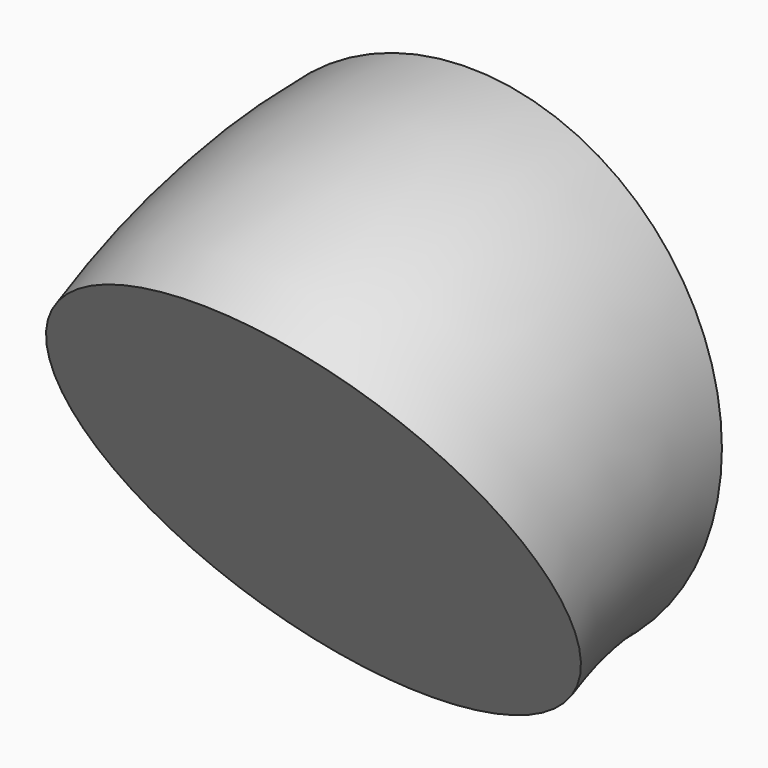
from build123d import *

# Parameters (mm, degrees)
F0_R     = 33.863403
F0_W     = 34.403794
F0_H     = 23.062286
F1_DEPTH = 125
F2_SIZE  = 5
F3_R     = 5
F4_R     = 34.462721
F5_ANGLE = 30


with BuildPart() as f1:
    # F0 (on Front) → F1 (new body)
    with BuildSketch(Plane.XZ):
        Circle(F0_R)
        Rectangle(F0_W, F0_H, mode=Mode.SUBTRACT)
    extrude(amount=F1_DEPTH)

    # F2
    f2_edges = [f1.edges().sort_by_distance(p)[0] for p in [
        (-33.863403, -125, 0),
    ]]
    chamfer(f2_edges, length=F2_SIZE)

    # F3
    f3_edges = [f1.edges().sort_by_distance(p)[0] for p in [
        (0, -125, 11.531143),
        (-17.201897, -125, 0),
        (0, -125, -11.531143),
        (17.201897, -125, 0),
    ]]
    fillet(f3_edges, radius=F3_R)


with BuildPart() as f5:
    # F4 (on Front) → F5 (revolve)
    with BuildSketch(Plane.XZ):
        with Locations((-44.028118, 58.48673)):
            Circle(F4_R)
    revolve(axis=Axis((-18.287189, 0, 4.913061), (0.998307, 0, -0.058173)), revolution_arc=F5_ANGLE)


solid = f5.part
